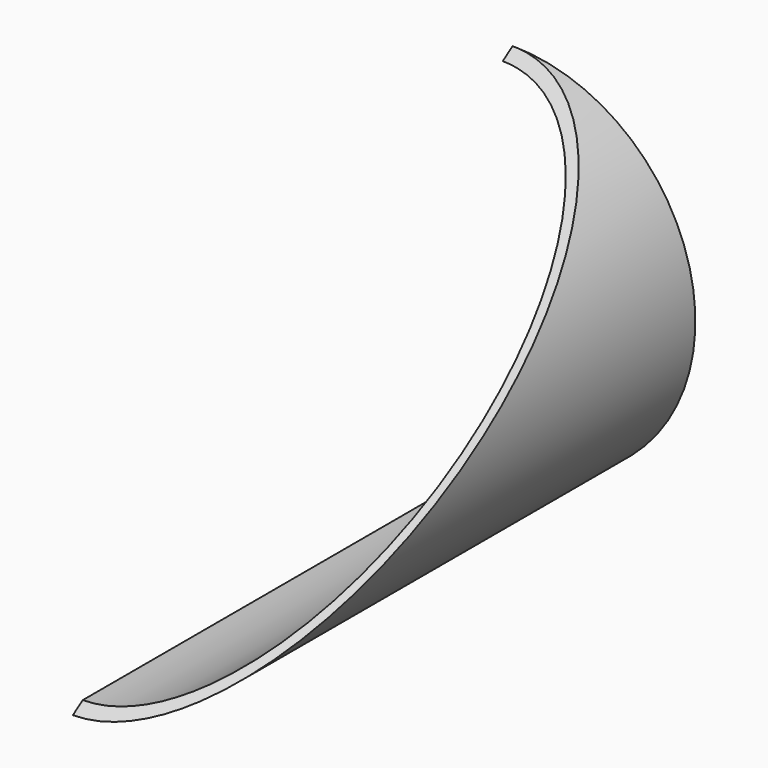
from build123d import *

# Parameters (mm, degrees)
F1_DEPTH = 100
F3_DEPTH = 66.501


with BuildPart() as f1:
    # F0 (on Front) → F1 (new body, symmetric)
    with BuildSketch(Plane.XZ):
        with BuildLine():
            ThreePointArc((0, 63.5), (63.5, 0), (0, -63.5))
            Line((0, -63.5), (0, -66.5))
            ThreePointArc((0, -66.5), (66.5, 0), (0, 66.5))
            Line((0, 66.5), (0, 63.5))
        make_face()
    extrude(amount=F1_DEPTH, both=True)

    # F2 (on Right) → F3 (cut, through all)
    with BuildSketch(Plane.YZ):
        Polygon((-100, 78.440242), (-100, -66.5), (100, 66.5), (100, 78.440242), align=None)
    extrude(amount=F3_DEPTH, mode=Mode.SUBTRACT)


solid = f1.part
